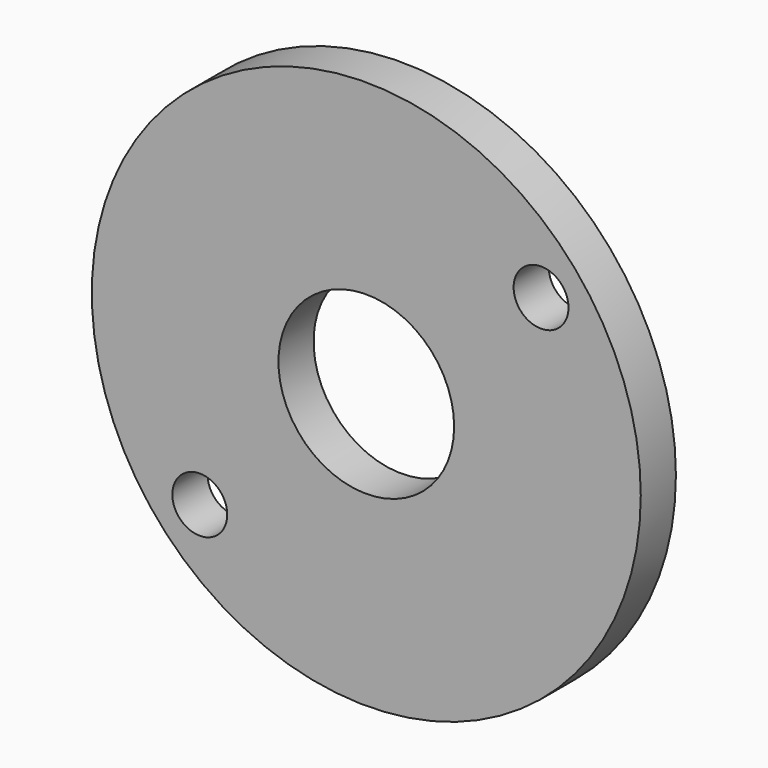
from build123d import *

# Parameters (mm, degrees)
F0_R     = 31.75
F0_R_2   = 3.175
F0_R_3   = 10.16
F1_DEPTH = 5.08


with BuildPart() as f1:
    # F0 (on Front) → F1 (new body)
    with BuildSketch(Plane.XZ):
        Circle(F0_R)
        with Locations((-19.259959, -17.517854)):
            Circle(F0_R_2, mode=Mode.SUBTRACT)
        Circle(F0_R_3, mode=Mode.SUBTRACT)
        with Locations((20.214442, 16.407241)):
            Circle(F0_R_2, mode=Mode.SUBTRACT)
    extrude(amount=F1_DEPTH)


solid = f1.part
